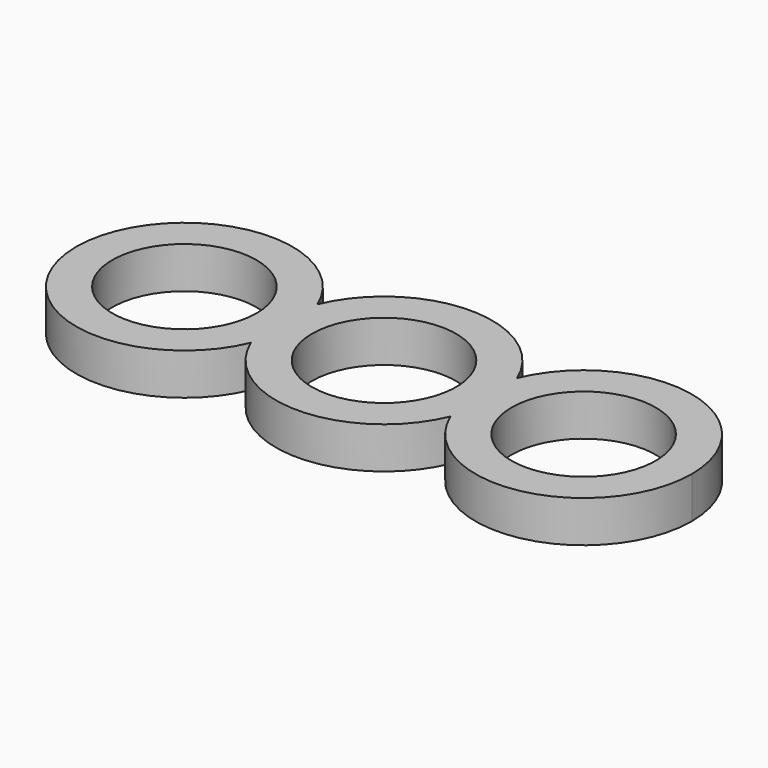
from build123d import *

# Parameters (mm, degrees)
F0_R     = 11.0109
F1_DEPTH = 6.35
F2_DEPTH = 6.35


with BuildPart() as f1:
    # F0 (on Top) → F1 (new body)
    with BuildSketch(Plane.XY):
        with BuildLine():
            Line((13.97, 0), (11.0109, 0))
            ThreePointArc((11.0109, 0), (0, -11.0109), (-11.0109, 0))
            Line((-11.0109, 0), (-13.97, 0))
            ThreePointArc((-13.97, 0), (-14.2906130443, -3.2378773911), (-15.24, -6.35))
            ThreePointArc((-15.24, -6.35), (0, -16.51), (15.24, -6.35))
            ThreePointArc((15.24, -6.35), (14.2906130443, -3.2378773911), (13.97, 0))
        make_face()
        with BuildLine():
            ThreePointArc((-11.0109, 0), (0, 11.0109), (11.0109, 0))
            Line((11.0109, 0), (13.97, 0))
            ThreePointArc((13.97, 0), (14.2906130443, 3.2378773911), (15.24, 6.35))
            ThreePointArc((15.24, 6.35), (0, 16.51), (-15.24, 6.35))
            ThreePointArc((-15.24, 6.35), (-14.2906130443, 3.2378773911), (-13.97, 0))
            Line((-13.97, 0), (-11.0109, 0))
        make_face()
        with BuildLine():
            ThreePointArc((15.24, 6.35), (14.2906130443, 3.2378773911), (13.97, 0))
            Line((13.97, 0), (16.51, 0))
            ThreePointArc((16.51, 0), (16.1893869557, 3.2378773911), (15.24, 6.35))
        make_face()
        with BuildLine():
            Line((16.51, 0), (13.97, 0))
            ThreePointArc((13.97, 0), (14.2906130443, -3.2378773911), (15.24, -6.35))
            ThreePointArc((15.24, -6.35), (16.1893869557, -3.2378773911), (16.51, 0))
        make_face()
        with BuildLine():
            ThreePointArc((-15.24, -6.35), (-14.2906130443, -3.2378773911), (-13.97, 0))
            Line((-13.97, 0), (-16.51, 0))
            ThreePointArc((-16.51, 0), (-16.1893869557, -3.2378773911), (-15.24, -6.35))
        make_face()
        with BuildLine():
            Line((-16.51, 0), (-13.97, 0))
            ThreePointArc((-13.97, 0), (-14.2906130443, 3.2378773911), (-15.24, 6.35))
            ThreePointArc((-15.24, 6.35), (-16.1893869557, 3.2378773911), (-16.51, 0))
        make_face()
        with BuildLine():
            ThreePointArc((15.24, 6.35), (16.1893869557, 3.2378773911), (16.51, 0))
            ThreePointArc((16.51, 0), (16.1893869557, -3.2378773911), (15.24, -6.35))
            ThreePointArc((15.24, -6.35), (33.7178773911, -16.1893869557), (46.99, 0))
            ThreePointArc((46.99, 0), (33.7178773911, 16.1893869557), (15.24, 6.35))
        make_face()
        with BuildLine():
            ThreePointArc((41.4909, 0), (30.48, -11.0109), (19.4691, 0))
            ThreePointArc((19.4691, 0), (30.48, 11.0109), (41.4909, 0))
        make_face(mode=Mode.SUBTRACT)
        with BuildLine():
            ThreePointArc((-15.24, -6.35), (-16.1893869557, -3.2378773911), (-16.51, 0))
            ThreePointArc((-16.51, 0), (-16.1893869557, 3.2378773911), (-15.24, 6.35))
            ThreePointArc((-15.24, 6.35), (-46.99, 0), (-15.24, -6.35))
        make_face()
        with Locations((-30.48, 0)):
            Circle(F0_R, mode=Mode.SUBTRACT)
    extrude(amount=F1_DEPTH)

    # F0 (on Top) → F2 (join)
    with BuildSketch(Plane.XY):
        with BuildLine():
            Line((13.97, 0), (11.0109, 0))
            ThreePointArc((11.0109, 0), (0, -11.0109), (-11.0109, 0))
            Line((-11.0109, 0), (-13.97, 0))
            ThreePointArc((-13.97, 0), (-14.2906130443, -3.2378773911), (-15.24, -6.35))
            ThreePointArc((-15.24, -6.35), (0, -16.51), (15.24, -6.35))
            ThreePointArc((15.24, -6.35), (14.2906130443, -3.2378773911), (13.97, 0))
        make_face()
        with BuildLine():
            ThreePointArc((-11.0109, 0), (0, 11.0109), (11.0109, 0))
            Line((11.0109, 0), (13.97, 0))
            ThreePointArc((13.97, 0), (14.2906130443, 3.2378773911), (15.24, 6.35))
            ThreePointArc((15.24, 6.35), (0, 16.51), (-15.24, 6.35))
            ThreePointArc((-15.24, 6.35), (-14.2906130443, 3.2378773911), (-13.97, 0))
            Line((-13.97, 0), (-11.0109, 0))
        make_face()
        with BuildLine():
            ThreePointArc((15.24, 6.35), (14.2906130443, 3.2378773911), (13.97, 0))
            Line((13.97, 0), (16.51, 0))
            ThreePointArc((16.51, 0), (16.1893869557, 3.2378773911), (15.24, 6.35))
        make_face()
        with BuildLine():
            Line((16.51, 0), (13.97, 0))
            ThreePointArc((13.97, 0), (14.2906130443, -3.2378773911), (15.24, -6.35))
            ThreePointArc((15.24, -6.35), (16.1893869557, -3.2378773911), (16.51, 0))
        make_face()
        with BuildLine():
            ThreePointArc((-15.24, -6.35), (-14.2906130443, -3.2378773911), (-13.97, 0))
            Line((-13.97, 0), (-16.51, 0))
            ThreePointArc((-16.51, 0), (-16.1893869557, -3.2378773911), (-15.24, -6.35))
        make_face()
        with BuildLine():
            Line((-16.51, 0), (-13.97, 0))
            ThreePointArc((-13.97, 0), (-14.2906130443, 3.2378773911), (-15.24, 6.35))
            ThreePointArc((-15.24, 6.35), (-16.1893869557, 3.2378773911), (-16.51, 0))
        make_face()
        with BuildLine():
            ThreePointArc((15.24, 6.35), (16.1893869557, 3.2378773911), (16.51, 0))
            ThreePointArc((16.51, 0), (16.1893869557, -3.2378773911), (15.24, -6.35))
            ThreePointArc((15.24, -6.35), (33.7178773911, -16.1893869557), (46.99, 0))
            ThreePointArc((46.99, 0), (33.7178773911, 16.1893869557), (15.24, 6.35))
        make_face()
        with BuildLine():
            ThreePointArc((41.4909, 0), (30.48, -11.0109), (19.4691, 0))
            ThreePointArc((19.4691, 0), (30.48, 11.0109), (41.4909, 0))
        make_face(mode=Mode.SUBTRACT)
        with BuildLine():
            ThreePointArc((-15.24, -6.35), (-16.1893869557, -3.2378773911), (-16.51, 0))
            ThreePointArc((-16.51, 0), (-16.1893869557, 3.2378773911), (-15.24, 6.35))
            ThreePointArc((-15.24, 6.35), (-46.99, 0), (-15.24, -6.35))
        make_face()
        with Locations((-30.48, 0)):
            Circle(F0_R, mode=Mode.SUBTRACT)
    extrude(amount=F2_DEPTH)


solid = f1.part
